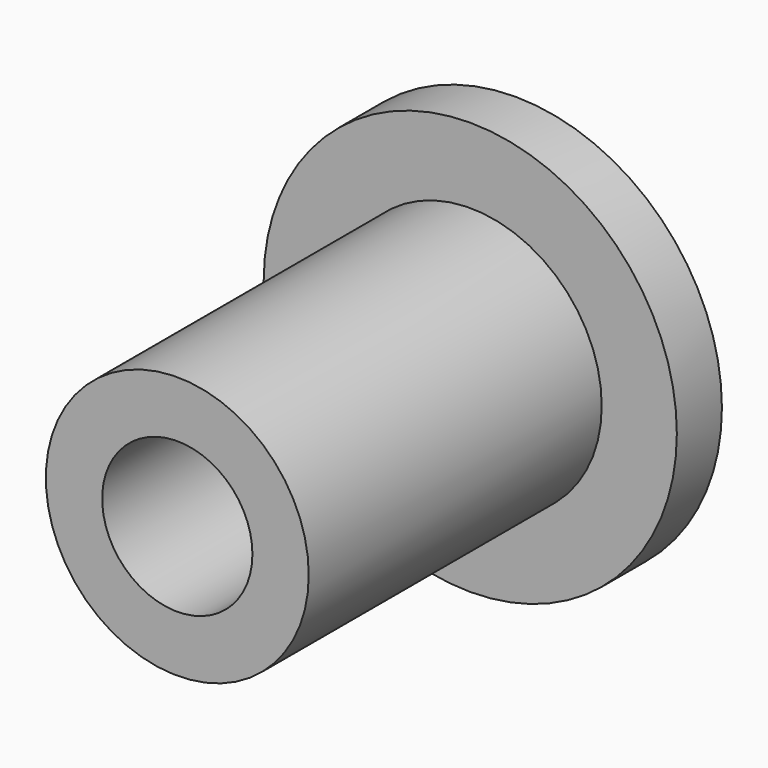
from build123d import *


with BuildPart() as part:
    # Sketch → Revolution (revolve)
    with BuildSketch(Plane.XY):
        with BuildLine():
            Line((4, 9.75), (4, -11.25))
            Line((4, -11.25), (7, -11.25))
            Line((7, -11.25), (7, 8.25))
            Line((7, 8.25), (11, 8.25))
            Line((11, 8.25), (11, 11.25))
            Line((11, 11.25), (7, 11.25))
            Line((7, 11.25), (5.5, 11.25))
            ThreePointArc((5.5, 11.25), (4.43934, 10.81066), (4, 9.75))
        make_face()
    revolve(axis=Axis((0, 0, 0), (0, 1, 0)))


solid = part.part
